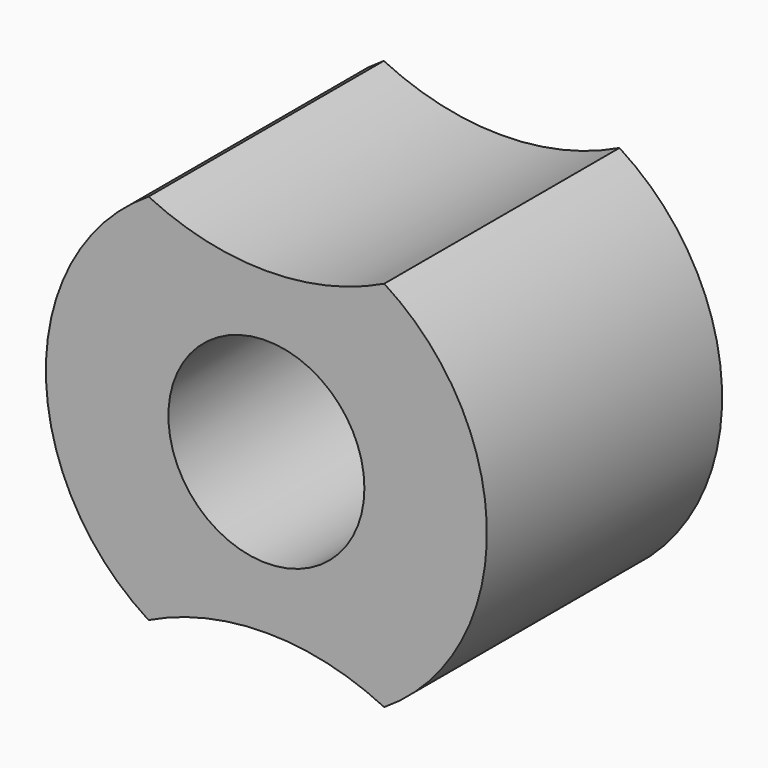
from build123d import *

# Parameters (mm, degrees)
F0_R     = 4
F1_DEPTH = 12


with BuildPart() as f1:
    # F0 (on Front) → F1 (new body)
    with BuildSketch(Plane.XZ):
        with BuildLine():
            ThreePointArc((4.809509, 7.607143), (0, 6.5), (-4.809509, 7.607143))
            ThreePointArc((-4.809509, 7.607143), (-9, 0), (-4.809509, -7.607143))
            ThreePointArc((-4.809509, -7.607143), (0, -6.5), (4.809509, -7.607143))
            ThreePointArc((4.809509, -7.607143), (9, 0), (4.809509, 7.607143))
        make_face()
        Circle(F0_R, mode=Mode.SUBTRACT)
    extrude(amount=-F1_DEPTH)


solid = f1.part
